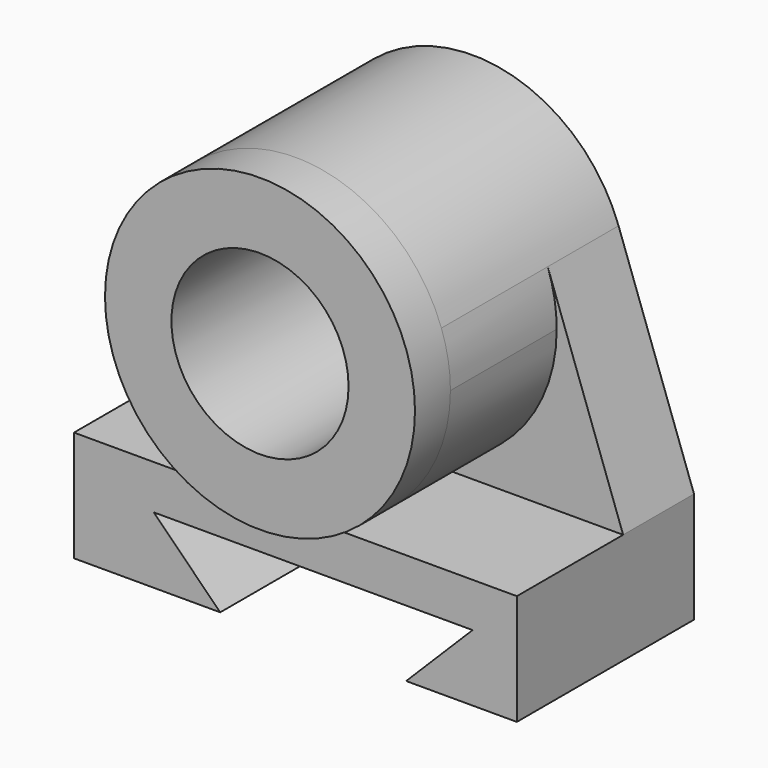
from build123d import *

# Parameters (mm, degrees)
F0_R        = 50.8
F1_DEPTH    = 127
F1_FACE_R   = 88.9
F1_FACE_R_2 = 50.8
F2_DEPTH    = 25.4
F3_DEPTH    = 50.8
F4_DEPTH    = 127


with BuildPart() as f1:
    # F0 (on Front) → F1 (new body)
    with BuildSketch(Plane.XZ):
        with BuildLine():
            ThreePointArc((210.733239, 184.80561), (127, 243.84), (43.266761, 184.80561))
            ThreePointArc((43.266761, 184.80561), (111.84538, 67.341213), (215.9, 154.94))
            ThreePointArc((215.9, 154.94), (214.598787, 170.09462), (210.733239, 184.80561))
        make_face()
        with Locations((127, 154.94)):
            Circle(F0_R, mode=Mode.SUBTRACT)
    extrude(amount=F1_DEPTH)

    # F1_face (on face) → F2 (join)
    with BuildSketch(Plane(origin=(127, -127, 154.94), x_dir=(1, 0, 0), z_dir=(0, -1, 0))):
        Circle(F1_FACE_R)
        Circle(F1_FACE_R_2, mode=Mode.SUBTRACT)
    extrude(amount=F2_DEPTH)

    # F0 (on Front) → F3 (join)
    with BuildSketch(Plane.XZ):
        with BuildLine():
            Line((43.266761, 184.80561), (0, 63.5))
            Line((0, 63.5), (254, 63.5))
            Line((254, 63.5), (210.733239, 184.80561))
            ThreePointArc((210.733239, 184.80561), (214.598787, 170.09462), (215.9, 154.94))
            ThreePointArc((215.9, 154.94), (111.84538, 67.341213), (43.266761, 184.80561))
        make_face()
    extrude(amount=F3_DEPTH)

    # F0 (on Front) → F4 (join)
    with BuildSketch(Plane.XZ):
        Polygon((0, 63.5), (0, 0), (83.8623, 0), (45.7623, 38.1), (228.6, 38.1), (190.5, 0), (254, 0), (254, 63.5), align=None)
    extrude(amount=F4_DEPTH)


solid = f1.part
